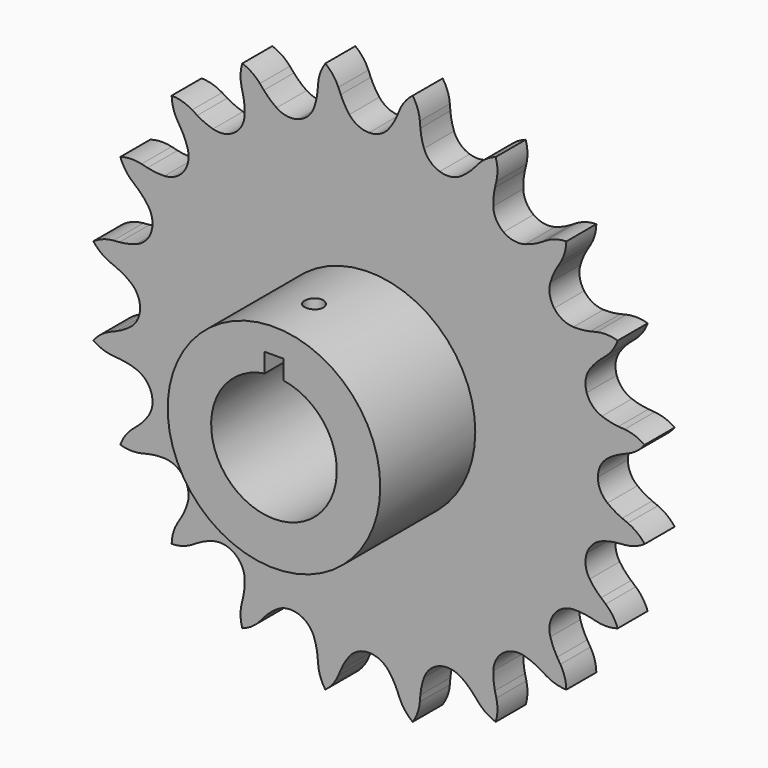
from build123d import *

# Parameters (mm, degrees)
F0_R     = 17
F1_DEPTH = 25
F2_DEPTH = 6
F3_R     = 10.05
F4_DEPTH = 25
F5_W     = 3
F5_H     = 13
F6_DEPTH = 25
F7_R     = 1.5
F8_DEPTH = 25


with BuildPart() as f1:
    # F0 (on Front) → F1 (new body)
    with BuildSketch(Plane.XZ):
        Circle(F0_R)
    extrude(amount=F1_DEPTH)

    # F0 (on Front) → F2 (join)
    with BuildSketch(Plane.XZ):
        with BuildLine():
            ThreePointArc((-3.137307, 38.140967), (-3.905976, 39.272029), (-4.518303, 40.494817))
            Line((-4.518303, 40.494817), (-4.899496, 41.40164))
            ThreePointArc((-4.899496, 41.40164), (-5.764305, 42.881522), (-6.982711, 44.087105))
            ThreePointArc((-6.982711, 44.087105), (-7.768939, 42.564019), (-8.134113, 40.889327))
            Line((-8.134113, 40.889327), (-8.216425, 39.909091))
            ThreePointArc((-8.216425, 39.909091), (-8.42092, 38.556932), (-8.802451, 37.243696))
            ThreePointArc((-8.802451, 37.243696), (-9.778005, 35.741474), (-11.313359, 34.81894))
            ThreePointArc((-11.313359, 34.81894), (-13.097739, 34.662827), (-14.769963, 35.304734))
            ThreePointArc((-14.769963, 35.304734), (-15.850528, 36.142906), (-16.810748, 37.116627))
            Line((-16.810748, 37.116627), (-17.453508, 37.861272))
            ThreePointArc((-17.453508, 37.861272), (-18.733299, 39.001483), (-20.264618, 39.771552))
            ThreePointArc((-20.264618, 39.771552), (-20.541705, 38.080053), (-20.371498, 36.374482))
            Line((-20.371498, 36.374482), (-20.146872, 35.416786))
            ThreePointArc((-20.146872, 35.416786), (-19.923518, 34.067614), (-19.880563, 32.700753))
            ThreePointArc((-19.880563, 32.700753), (-20.344158, 30.970592), (-21.519288, 29.618759))
            ThreePointArc((-21.519288, 29.618759), (-23.168092, 28.918884), (-24.956833, 29.012628))
            ThreePointArc((-24.956833, 29.012628), (-26.243521, 29.475864), (-27.45764, 30.105203))
            Line((-27.45764, 30.105203), (-28.299049, 30.614779))
            ThreePointArc((-28.299049, 30.614779), (-29.868547, 31.303706), (-31.562882, 31.562882))
            ThreePointArc((-31.562882, 31.562882), (-31.303706, 29.868547), (-30.614779, 28.299049))
            Line((-30.614779, 28.299049), (-30.105203, 27.45764))
            ThreePointArc((-30.105203, 27.45764), (-29.475864, 26.243521), (-29.012628, 24.956833))
            ThreePointArc((-29.012628, 24.956833), (-28.918884, 23.168092), (-29.618759, 21.519288))
            ThreePointArc((-29.618759, 21.519288), (-30.970592, 20.344158), (-32.700753, 19.880563))
            ThreePointArc((-32.700753, 19.880563), (-34.067614, 19.923518), (-35.416786, 20.146872))
            Line((-35.416786, 20.146872), (-36.374482, 20.371498))
            ThreePointArc((-36.374482, 20.371498), (-38.080053, 20.541705), (-39.771552, 20.264618))
            ThreePointArc((-39.771552, 20.264618), (-39.001483, 18.733299), (-37.861272, 17.453508))
            Line((-37.861272, 17.453508), (-37.116627, 16.810748))
            ThreePointArc((-37.116627, 16.810748), (-36.142906, 15.850528), (-35.304734, 14.769963))
            ThreePointArc((-35.304734, 14.769963), (-34.662827, 13.097739), (-34.81894, 11.313359))
            ThreePointArc((-34.81894, 11.313359), (-35.741474, 9.778005), (-37.243696, 8.802451))
            ThreePointArc((-37.243696, 8.802451), (-38.556932, 8.42092), (-39.909091, 8.216425))
            Line((-39.909091, 8.216425), (-40.889327, 8.134113))
            ThreePointArc((-40.889327, 8.134113), (-42.564019, 7.768939), (-44.087105, 6.982711))
            ThreePointArc((-44.087105, 6.982711), (-42.881522, 5.764305), (-41.40164, 4.899496))
            Line((-41.40164, 4.899496), (-40.494817, 4.518303))
            ThreePointArc((-40.494817, 4.518303), (-39.272029, 3.905976), (-38.140967, 3.137307))
            ThreePointArc((-38.140967, 3.137307), (-37.013731, 1.745287), (-36.6108, 0))
            ThreePointArc((-36.6108, 0), (-37.013731, -1.745287), (-38.140967, -3.137307))
            ThreePointArc((-38.140967, -3.137307), (-39.272029, -3.905976), (-40.494817, -4.518303))
            Line((-40.494817, -4.518303), (-41.40164, -4.899496))
            ThreePointArc((-41.40164, -4.899496), (-42.881522, -5.764305), (-44.087105, -6.982711))
            ThreePointArc((-44.087105, -6.982711), (-42.564019, -7.768939), (-40.889327, -8.134113))
            Line((-40.889327, -8.134113), (-39.909091, -8.216425))
            ThreePointArc((-39.909091, -8.216425), (-38.556932, -8.42092), (-37.243696, -8.802451))
            ThreePointArc((-37.243696, -8.802451), (-35.741474, -9.778005), (-34.81894, -11.313359))
            ThreePointArc((-34.81894, -11.313359), (-34.662827, -13.097739), (-35.304734, -14.769963))
            ThreePointArc((-35.304734, -14.769963), (-36.142906, -15.850528), (-37.116627, -16.810748))
            Line((-37.116627, -16.810748), (-37.861272, -17.453508))
            ThreePointArc((-37.861272, -17.453508), (-39.001483, -18.733299), (-39.771552, -20.264618))
            ThreePointArc((-39.771552, -20.264618), (-38.080053, -20.541705), (-36.374482, -20.371498))
            Line((-36.374482, -20.371498), (-35.416786, -20.146872))
            ThreePointArc((-35.416786, -20.146872), (-34.067614, -19.923518), (-32.700753, -19.880563))
            ThreePointArc((-32.700753, -19.880563), (-30.970592, -20.344158), (-29.618759, -21.519288))
            ThreePointArc((-29.618759, -21.519288), (-28.918884, -23.168092), (-29.012628, -24.956833))
            ThreePointArc((-29.012628, -24.956833), (-29.475864, -26.243521), (-30.105203, -27.45764))
            Line((-30.105203, -27.45764), (-30.614779, -28.299049))
            ThreePointArc((-30.614779, -28.299049), (-31.303706, -29.868547), (-31.562882, -31.562882))
            ThreePointArc((-31.562882, -31.562882), (-29.868547, -31.303706), (-28.299049, -30.614779))
            Line((-28.299049, -30.614779), (-27.45764, -30.105203))
            ThreePointArc((-27.45764, -30.105203), (-26.243521, -29.475864), (-24.956833, -29.012628))
            ThreePointArc((-24.956833, -29.012628), (-23.168092, -28.918884), (-21.519288, -29.618759))
            ThreePointArc((-21.519288, -29.618759), (-20.344158, -30.970592), (-19.880563, -32.700753))
            ThreePointArc((-19.880563, -32.700753), (-19.923518, -34.067614), (-20.146872, -35.416786))
            Line((-20.146872, -35.416786), (-20.371498, -36.374482))
            ThreePointArc((-20.371498, -36.374482), (-20.541705, -38.080053), (-20.264618, -39.771552))
            ThreePointArc((-20.264618, -39.771552), (-18.733299, -39.001483), (-17.453508, -37.861272))
            Line((-17.453508, -37.861272), (-16.810748, -37.116627))
            ThreePointArc((-16.810748, -37.116627), (-15.850528, -36.142906), (-14.769963, -35.304734))
            ThreePointArc((-14.769963, -35.304734), (-13.097739, -34.662827), (-11.313359, -34.81894))
            ThreePointArc((-11.313359, -34.81894), (-9.778005, -35.741474), (-8.802451, -37.243696))
            ThreePointArc((-8.802451, -37.243696), (-8.42092, -38.556932), (-8.216425, -39.909091))
            Line((-8.216425, -39.909091), (-8.134113, -40.889327))
            ThreePointArc((-8.134113, -40.889327), (-7.768939, -42.564019), (-6.982711, -44.087105))
            ThreePointArc((-6.982711, -44.087105), (-5.764305, -42.881522), (-4.899496, -41.40164))
            Line((-4.899496, -41.40164), (-4.518303, -40.494817))
            ThreePointArc((-4.518303, -40.494817), (-3.905976, -39.272029), (-3.137307, -38.140967))
            ThreePointArc((-3.137307, -38.140967), (-1.745287, -37.013731), (0, -36.6108))
            ThreePointArc((0, -36.6108), (1.745287, -37.013731), (3.137307, -38.140967))
            ThreePointArc((3.137307, -38.140967), (3.905976, -39.272029), (4.518303, -40.494817))
            Line((4.518303, -40.494817), (4.899496, -41.40164))
            ThreePointArc((4.899496, -41.40164), (5.764305, -42.881522), (6.982711, -44.087105))
            ThreePointArc((6.982711, -44.087105), (7.768939, -42.564019), (8.134113, -40.889327))
            Line((8.134113, -40.889327), (8.216425, -39.909091))
            ThreePointArc((8.216425, -39.909091), (8.42092, -38.556932), (8.802451, -37.243696))
            ThreePointArc((8.802451, -37.243696), (9.778005, -35.741474), (11.313359, -34.81894))
            ThreePointArc((11.313359, -34.81894), (13.097739, -34.662827), (14.769963, -35.304734))
            ThreePointArc((14.769963, -35.304734), (15.850528, -36.142906), (16.810748, -37.116627))
            Line((16.810748, -37.116627), (17.453508, -37.861272))
            ThreePointArc((17.453508, -37.861272), (18.733299, -39.001483), (20.264618, -39.771552))
            ThreePointArc((20.264618, -39.771552), (20.541705, -38.080053), (20.371498, -36.374482))
            Line((20.371498, -36.374482), (20.146872, -35.416786))
            ThreePointArc((20.146872, -35.416786), (19.923518, -34.067614), (19.880563, -32.700753))
            ThreePointArc((19.880563, -32.700753), (20.344158, -30.970592), (21.519288, -29.618759))
            ThreePointArc((21.519288, -29.618759), (23.168092, -28.918884), (24.956833, -29.012628))
            ThreePointArc((24.956833, -29.012628), (26.243521, -29.475864), (27.45764, -30.105203))
            Line((27.45764, -30.105203), (28.299049, -30.614779))
            ThreePointArc((28.299049, -30.614779), (29.868547, -31.303706), (31.562882, -31.562882))
            ThreePointArc((31.562882, -31.562882), (31.303706, -29.868547), (30.614779, -28.299049))
            Line((30.614779, -28.299049), (30.105203, -27.45764))
            ThreePointArc((30.105203, -27.45764), (29.475864, -26.243521), (29.012628, -24.956833))
            ThreePointArc((29.012628, -24.956833), (28.918884, -23.168092), (29.618759, -21.519288))
            ThreePointArc((29.618759, -21.519288), (30.970592, -20.344158), (32.700753, -19.880563))
            ThreePointArc((32.700753, -19.880563), (34.067614, -19.923518), (35.416786, -20.146872))
            Line((35.416786, -20.146872), (36.374482, -20.371498))
            ThreePointArc((36.374482, -20.371498), (38.080053, -20.541705), (39.771552, -20.264618))
            ThreePointArc((39.771552, -20.264618), (39.001483, -18.733299), (37.861272, -17.453508))
            Line((37.861272, -17.453508), (37.116627, -16.810748))
            ThreePointArc((37.116627, -16.810748), (36.142906, -15.850528), (35.304734, -14.769963))
            ThreePointArc((35.304734, -14.769963), (34.662827, -13.097739), (34.81894, -11.313359))
            ThreePointArc((34.81894, -11.313359), (35.741474, -9.778005), (37.243696, -8.802451))
            ThreePointArc((37.243696, -8.802451), (38.556932, -8.42092), (39.909091, -8.216425))
            Line((39.909091, -8.216425), (40.889327, -8.134113))
            ThreePointArc((40.889327, -8.134113), (42.564019, -7.768939), (44.087105, -6.982711))
            ThreePointArc((44.087105, -6.982711), (42.881522, -5.764305), (41.40164, -4.899496))
            Line((41.40164, -4.899496), (40.494817, -4.518303))
            ThreePointArc((40.494817, -4.518303), (39.272029, -3.905976), (38.140967, -3.137307))
            ThreePointArc((38.140967, -3.137307), (37.013731, -1.745287), (36.6108, 0))
            ThreePointArc((36.6108, 0), (37.013731, 1.745287), (38.140967, 3.137307))
            ThreePointArc((38.140967, 3.137307), (39.272029, 3.905976), (40.494817, 4.518303))
            Line((40.494817, 4.518303), (41.40164, 4.899496))
            ThreePointArc((41.40164, 4.899496), (42.881522, 5.764305), (44.087105, 6.982711))
            ThreePointArc((44.087105, 6.982711), (42.564019, 7.768939), (40.889327, 8.134113))
            Line((40.889327, 8.134113), (39.909091, 8.216425))
            ThreePointArc((39.909091, 8.216425), (38.556932, 8.42092), (37.243696, 8.802451))
            ThreePointArc((37.243696, 8.802451), (35.741474, 9.778005), (34.81894, 11.313359))
            ThreePointArc((34.81894, 11.313359), (34.662827, 13.097739), (35.304734, 14.769963))
            ThreePointArc((35.304734, 14.769963), (36.142906, 15.850528), (37.116627, 16.810748))
            Line((37.116627, 16.810748), (37.861272, 17.453508))
            ThreePointArc((37.861272, 17.453508), (39.001483, 18.733299), (39.771552, 20.264618))
            ThreePointArc((39.771552, 20.264618), (38.080053, 20.541705), (36.374482, 20.371498))
            Line((36.374482, 20.371498), (35.416786, 20.146872))
            ThreePointArc((35.416786, 20.146872), (34.067614, 19.923518), (32.700753, 19.880563))
            ThreePointArc((32.700753, 19.880563), (30.970592, 20.344158), (29.618759, 21.519288))
            ThreePointArc((29.618759, 21.519288), (28.918884, 23.168092), (29.012628, 24.956833))
            ThreePointArc((29.012628, 24.956833), (29.475864, 26.243521), (30.105203, 27.45764))
            Line((30.105203, 27.45764), (30.614779, 28.299049))
            ThreePointArc((30.614779, 28.299049), (31.303706, 29.868547), (31.562882, 31.562882))
            ThreePointArc((31.562882, 31.562882), (29.868547, 31.303706), (28.299049, 30.614779))
            Line((28.299049, 30.614779), (27.45764, 30.105203))
            ThreePointArc((27.45764, 30.105203), (26.243521, 29.475864), (24.956833, 29.012628))
            ThreePointArc((24.956833, 29.012628), (23.168092, 28.918884), (21.519288, 29.618759))
            ThreePointArc((21.519288, 29.618759), (20.344158, 30.970592), (19.880563, 32.700753))
            ThreePointArc((19.880563, 32.700753), (19.923518, 34.067614), (20.146872, 35.416786))
            Line((20.146872, 35.416786), (20.371498, 36.374482))
            ThreePointArc((20.371498, 36.374482), (20.541705, 38.080053), (20.264618, 39.771552))
            ThreePointArc((20.264618, 39.771552), (18.733299, 39.001483), (17.453508, 37.861272))
            Line((17.453508, 37.861272), (16.810748, 37.116627))
            ThreePointArc((16.810748, 37.116627), (15.850528, 36.142906), (14.769963, 35.304734))
            ThreePointArc((14.769963, 35.304734), (13.097739, 34.662827), (11.313359, 34.81894))
            ThreePointArc((11.313359, 34.81894), (9.778005, 35.741474), (8.802451, 37.243696))
            ThreePointArc((8.802451, 37.243696), (8.42092, 38.556932), (8.216425, 39.909091))
            Line((8.216425, 39.909091), (8.134113, 40.889327))
            ThreePointArc((8.134113, 40.889327), (7.768939, 42.564019), (6.982711, 44.087105))
            ThreePointArc((6.982711, 44.087105), (5.764305, 42.881522), (4.899496, 41.40164))
            Line((4.899496, 41.40164), (4.518303, 40.494817))
            ThreePointArc((4.518303, 40.494817), (3.905976, 39.272029), (3.137307, 38.140967))
            ThreePointArc((3.137307, 38.140967), (1.745287, 37.013731), (0, 36.6108))
            ThreePointArc((0, 36.6108), (-1.745287, 37.013731), (-3.137307, 38.140967))
        make_face()
        Circle(F0_R, mode=Mode.SUBTRACT)
    extrude(amount=F2_DEPTH)

    # F3 (on face) → F4 (cut)
    with BuildSketch(Plane.XZ.offset(25)):
        Circle(F3_R)
    extrude(amount=-F4_DEPTH, mode=Mode.SUBTRACT)

    # F5 (on face) → F6 (cut)
    with BuildSketch(Plane.XZ.offset(25)):
        with Locations((0, 6.5)):
            Rectangle(F5_W, F5_H)
    extrude(amount=-F6_DEPTH, mode=Mode.SUBTRACT)

    # F7 (on Top) → F8 (cut)
    with BuildSketch(Plane.XY):
        with Locations((0, -17)):
            Circle(F7_R)
    extrude(amount=F8_DEPTH, mode=Mode.SUBTRACT)


solid = f1.part
